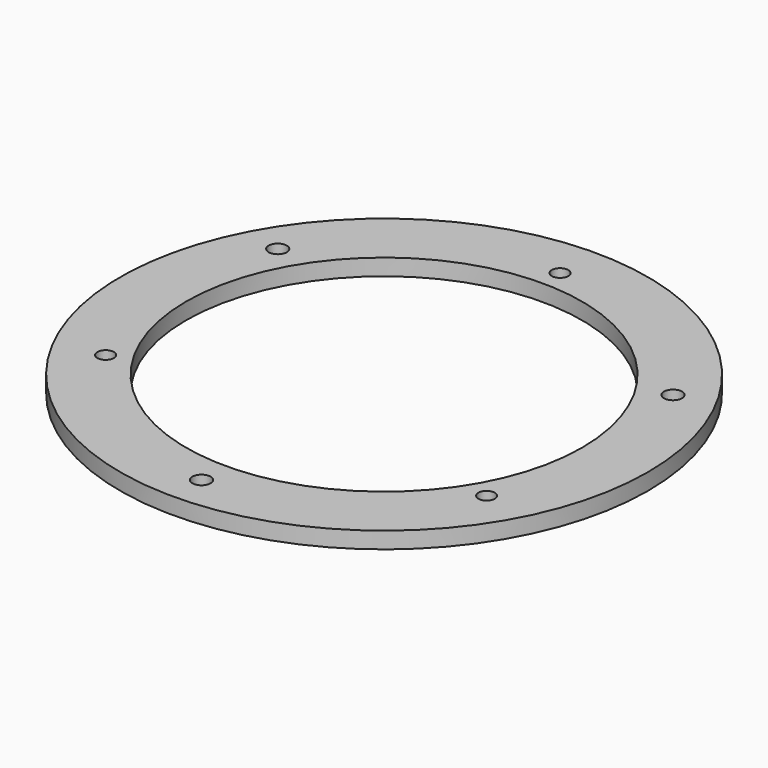
from build123d import *

# Parameters (mm, degrees)
F0_R     = 48
F0_R_2   = 1.5
F0_R_3   = 1.65
F0_R_4   = 36
F1_DEPTH = 3


with BuildPart() as f1:
    # F0 (on Top) → F1 (new body)
    with BuildSketch(Plane.XY):
        Circle(F0_R)
        with Locations((-34.641016, -20)):
            Circle(F0_R_2, mode=Mode.SUBTRACT)
        with Locations((0, -41.5)):
            Circle(F0_R_3, mode=Mode.SUBTRACT)
        with Locations((34.641016, -20)):
            Circle(F0_R_2, mode=Mode.SUBTRACT)
        with Locations((-35.940054, 20.75)):
            Circle(F0_R_3, mode=Mode.SUBTRACT)
        Circle(F0_R_4, mode=Mode.SUBTRACT)
        with Locations((35.940054, 20.75)):
            Circle(F0_R_3, mode=Mode.SUBTRACT)
        with Locations((0, 40)):
            Circle(F0_R_2, mode=Mode.SUBTRACT)
    extrude(amount=F1_DEPTH)


solid = f1.part
